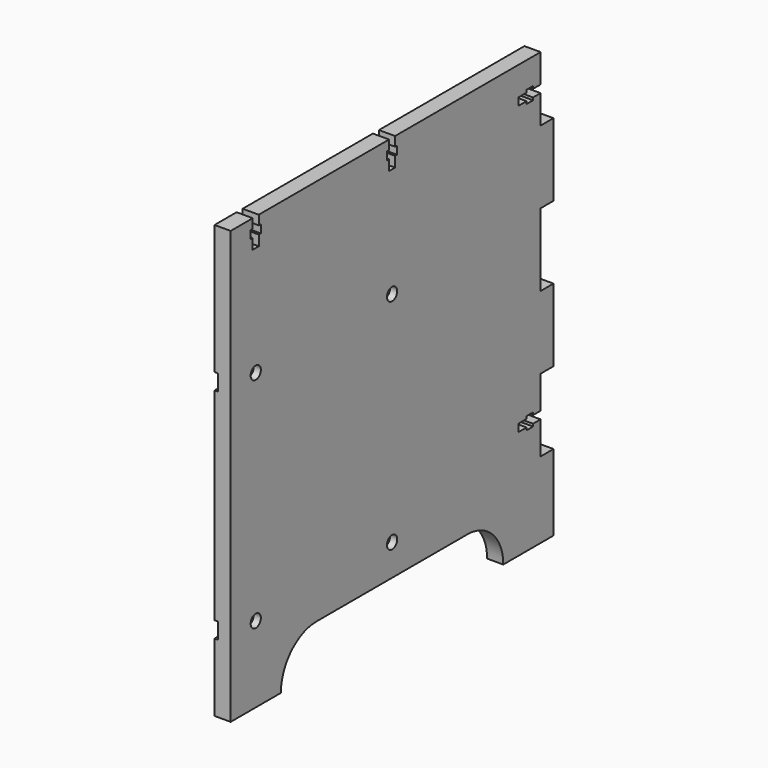
from build123d import *

# Parameters (mm, degrees)
F3_DEPTH       = 18
F4_DEPTH       = 14
F5_D           = 8.4
F5_CBORE_D     = 14.25
F5_CBORE_DEPTH = 8


with BuildPart() as f3:
    # F2 (on Right) → F3 (new body)
    with BuildSketch(Plane.YZ):
        Polygon((-194.2, 232), (-225, 232), (-225, 87.6), (207, 87.6), (207, 78.6), (225, 78.6), (225, 159.8), (207, 159.8), (207, 191.7), (196.5, 191.7), (196.5, 188.9), (187.5, 188.9), (187.5, 191.7), (177, 191.7), (176, 191.7), (176, 200.1), (177, 200.1), (187.5, 200.1), (187.5, 202.9), (196.5, 202.9), (196.5, 200.1), (207, 200.1), (207, 232), (4.2, 232), (4.2, 221.5), (7, 221.5), (7, 212.5), (4.2, 212.5), (4.2, 201), (-4.2, 201), (-4.2, 212.5), (-7, 212.5), (-7, 221.5), (-4.2, 221.5), (-4.2, 232), (-185.8, 232), (-185.8, 221.5), (-183, 221.5), (-183, 212.5), (-185.8, 212.5), (-185.8, 202), (-185.8, 201), (-194.2, 201), (-194.2, 202), (-194.2, 212.5), (-197, 212.5), (-197, 221.5), (-194.2, 221.5), align=None)
    extrude(amount=-F3_DEPTH)



with BuildPart() as f3b:
    # F2 (on Right) → F3, piece 2 (new body)
    with BuildSketch(Plane.YZ):
        Polygon((207, 69.6), (-225, 69.6), (-225, -156), (207, -156), (207, -128.6), (196.5, -128.6), (196.5, -131.4), (187.5, -131.4), (187.5, -128.6), (176, -128.6), (176, -120.2), (187.5, -120.2), (187.5, -117.4), (196.5, -117.4), (196.5, -120.2), (207, -120.2), (207, -83.8), (225, -83.8), (225, -2.6), (207, -2.6), align=None)
    extrude(amount=-F3_DEPTH)


with BuildPart() as f3c:
    # F2 (on Right) → F3, piece 3 (new body)
    with BuildSketch(Plane.YZ):
        with BuildLine():
            Line((207, -174), (-225, -174))
            Line((-225, -174), (-225, -250))
            Line((-225, -250), (-155, -250))
            ThreePointArc((-155, -250), (-140.3553390593, -214.6446609407), (-105, -200))
            Line((-105, -200), (105, -200))
            ThreePointArc((105, -200), (140.3553390593, -214.6446609407), (155, -250))
            Line((155, -250), (225, -250))
            Line((225, -250), (225, -165))
            Line((225, -165), (207, -165))
            Line((207, -165), (207, -174))
        make_face()
    extrude(amount=-F3_DEPTH)


with BuildPart() as f3_1:
    add(f3.part)

    add(f3b.part)  # F4 merges F3b

    add(f3c.part)  # F4 merges F3c
    # F2 (on Right) → F4 (join)
    with BuildSketch(Plane.YZ):
        Polygon((207, 87.6), (-225, 87.6), (-225, 69.6), (207, 69.6), (207, 78.6), align=None)
        Polygon((207, -156), (-225, -156), (-225, -174), (207, -174), (207, -165), align=None)
    extrude(amount=-F4_DEPTH)

    # F5 (through all)
    with Locations(Plane.YZ):
        with Locations((-190, 78.6), (0, 78.6), (0, -165), (-190, -165)):
            CounterBoreHole(F5_D / 2, F5_CBORE_D / 2, F5_CBORE_DEPTH)


solid = f3_1.part
